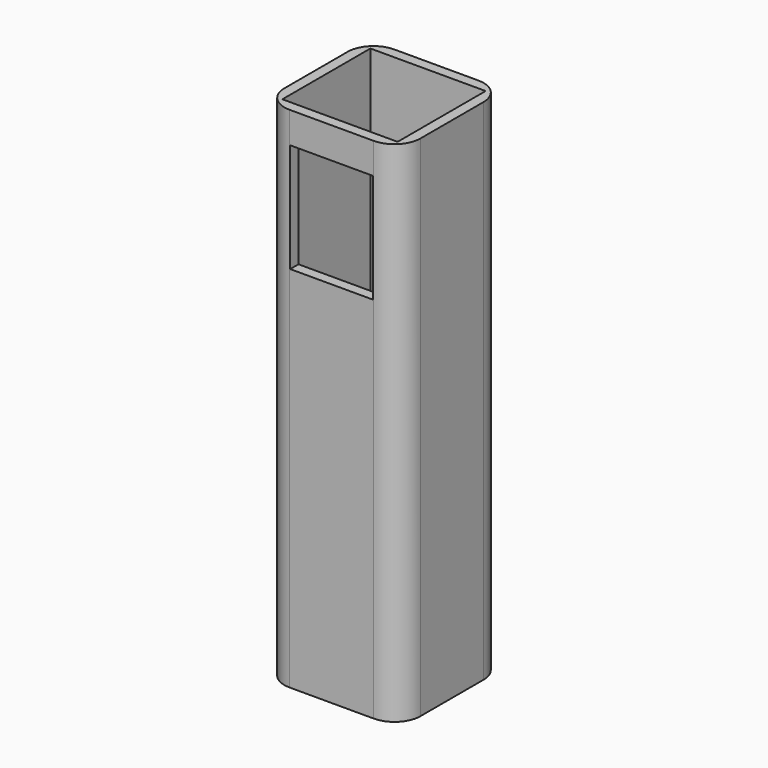
from build123d import *

# Parameters (mm, degrees)
F0_W     = 26.2
F0_H     = 25.2
F1_DEPTH = 98
F2_T     = -2
F3_R     = 9
F4_DEPTH = 2
F7_DEPTH = 2
F8_R     = 5


with BuildPart() as f1:
    # F0 (on Top) → F1 (new body)
    with BuildSketch(Plane.XY):
        Rectangle(F0_W, F0_H)
    extrude(amount=-F1_DEPTH)

    # F2
    f2_openings = [f1.faces().sort_by_distance(p)[0] for p in [
        (0, 0, 0),
    ]]
    offset(amount=F2_T, openings=f2_openings)

    # F3 (on face) → F4 (cut)
    with BuildSketch(Plane(origin=(0, 0, -98), x_dir=(1, 0, 0), z_dir=(0, 0, -1))):
        Circle(F3_R)
    extrude(amount=-F4_DEPTH, mode=Mode.SUBTRACT)

    # F6 (on face) → F7 (cut)
    with BuildSketch(Plane.XZ.offset(12.6)):
        Polygon((-8, -26.982739), (8, -26.982739), (8, -5.982739), (0, -5.982739), (-8, -5.982739), align=None)
    extrude(amount=-F7_DEPTH, mode=Mode.SUBTRACT)

    # F8
    f8_edges = [f1.edges().sort_by_distance(p)[0] for p in [
        (13.1, -12.6, -49),
        (-13.1, -12.6, -49),
        (-13.1, 12.6, -49),
        (13.1, 12.6, -49),
    ]]
    fillet(f8_edges, radius=F8_R)


solid = f1.part
